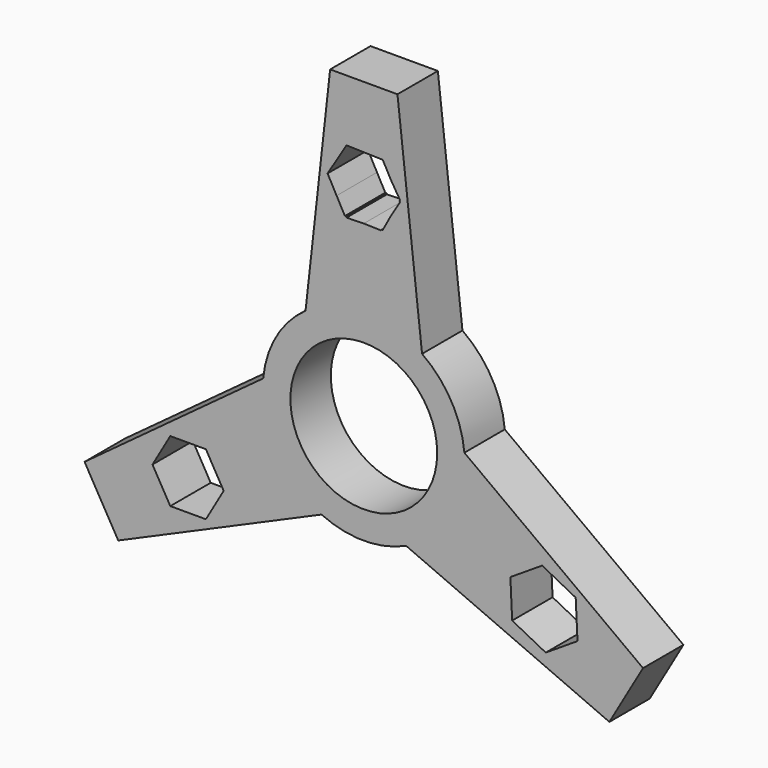
from build123d import *

# Parameters (mm, degrees)
F0_R     = 10.9
F1_DEPTH = 3.75


with BuildPart() as f1:
    # F0 (on Front) → F1 (new body, symmetric)
    with BuildSketch(Plane.XZ):
        with BuildLine():
            ThreePointArc((14.937581, 1.366992), (14.984387, 0.684208), (15, 0))
            ThreePointArc((15, 0), (12.634756, -8.084735), (6.284941, -13.619821))
            Line((6.284941, -13.619821), (36.471143, -26.830127))
            Line((36.471143, -26.830127), (38.971143, -22.5))
            Line((38.971143, -22.5), (41.471143, -18.169873))
            Line((41.471143, -18.169873), (14.937581, 1.366992))
        make_face()
        Polygon((31.738434, -17.805939), (27.021887, -20.839044), (22.036867, -18.270946), (21.768395, -12.669745), (26.484942, -9.63664), (31.469961, -12.204737), align=None, mode=Mode.SUBTRACT)
        with BuildLine():
            Line((-36.471143, -26.830127), (-6.284941, -13.619821))
            ThreePointArc((-6.284941, -13.619821), (-12.990381, -7.5), (-14.937581, 1.366992))
            Line((-14.937581, 1.366992), (-41.471143, -18.169873))
            Line((-41.471143, -18.169873), (-38.971143, -22.5))
            Line((-38.971143, -22.5), (-36.471143, -26.830127))
        make_face()
        Polygon((-31.384168, -15.239825), (-28.740776, -10.661338), (-23.453994, -10.661338), (-20.810603, -15.239825), (-23.453994, -19.818313), (-28.740776, -19.818313), align=None, mode=Mode.SUBTRACT)
        with BuildLine():
            ThreePointArc((-8.65264, 12.252829), (0, 15), (8.65264, 12.252829))
            Line((8.65264, 12.252829), (5, 45))
            Line((5, 45), (0, 45))
            Line((0, 45), (-5, 45))
            Line((-5, 45), (-8.65264, 12.252829))
        make_face()
        Polygon((4.037737, 33.466694), (5.380126, 31.273188), (5.305265, 31.135505), (5.380126, 30.997823), (4.037737, 28.804316), (2.8093, 26.54502), (2.652632, 26.541011), (2.570827, 26.407338), (0, 26.473128), (-2.570827, 26.407338), (-2.652632, 26.541011), (-2.8093, 26.54502), (-4.037737, 28.804316), (-5.380126, 31.273188), (-2.570827, 35.863672), (2.652632, 35.729999), (2.8093, 35.72599), align=None, mode=Mode.SUBTRACT)
        Circle(F0_R)
        with BuildLine():
            Line((-36.471143, -26.830127), (-6.284941, -13.619821))
            ThreePointArc((-6.284941, -13.619821), (-12.990381, -7.5), (-14.937581, 1.366992))
            Line((-14.937581, 1.366992), (-41.471143, -18.169873))
            Line((-41.471143, -18.169873), (-38.971143, -22.5))
            Line((-38.971143, -22.5), (-36.471143, -26.830127))
        make_face()
        Polygon((-31.384168, -15.239825), (-28.740776, -10.661338), (-23.453994, -10.661338), (-20.810603, -15.239825), (-23.453994, -19.818313), (-28.740776, -19.818313), align=None, mode=Mode.SUBTRACT)
        with BuildLine():
            ThreePointArc((6.284941, -13.619821), (12.634756, -8.084735), (15, 0))
            ThreePointArc((15, 0), (14.984387, 0.684208), (14.937581, 1.366992))
            ThreePointArc((14.937581, 1.366992), (12.990381, 7.5), (8.65264, 12.252829))
            ThreePointArc((8.65264, 12.252829), (0, 15), (-8.65264, 12.252829))
            ThreePointArc((-8.65264, 12.252829), (-12.990381, 7.5), (-14.937581, 1.366992))
            ThreePointArc((-14.937581, 1.366992), (-12.990381, -7.5), (-6.284941, -13.619821))
            ThreePointArc((-6.284941, -13.619821), (0, -15), (6.284941, -13.619821))
        make_face()
        Circle(F0_R, mode=Mode.SUBTRACT)
        with BuildLine():
            ThreePointArc((-8.65264, 12.252829), (0, 15), (8.65264, 12.252829))
            Line((8.65264, 12.252829), (5, 45))
            Line((5, 45), (0, 45))
            Line((0, 45), (-5, 45))
            Line((-5, 45), (-8.65264, 12.252829))
        make_face()
        Polygon((4.037737, 33.466694), (5.380126, 31.273188), (5.305265, 31.135505), (5.380126, 30.997823), (4.037737, 28.804316), (2.8093, 26.54502), (2.652632, 26.541011), (2.570827, 26.407338), (0, 26.473128), (-2.570827, 26.407338), (-2.652632, 26.541011), (-2.8093, 26.54502), (-4.037737, 28.804316), (-5.380126, 31.273188), (-2.570827, 35.863672), (2.652632, 35.729999), (2.8093, 35.72599), align=None, mode=Mode.SUBTRACT)
        with BuildLine():
            ThreePointArc((14.937581, 1.366992), (14.984387, 0.684208), (15, 0))
            ThreePointArc((15, 0), (12.634756, -8.084735), (6.284941, -13.619821))
            Line((6.284941, -13.619821), (36.471143, -26.830127))
            Line((36.471143, -26.830127), (38.971143, -22.5))
            Line((38.971143, -22.5), (41.471143, -18.169873))
            Line((41.471143, -18.169873), (14.937581, 1.366992))
        make_face()
        Polygon((31.738434, -17.805939), (27.021887, -20.839044), (22.036867, -18.270946), (21.768395, -12.669745), (26.484942, -9.63664), (31.469961, -12.204737), align=None, mode=Mode.SUBTRACT)
    extrude(amount=F1_DEPTH, both=True)


solid = f1.part
